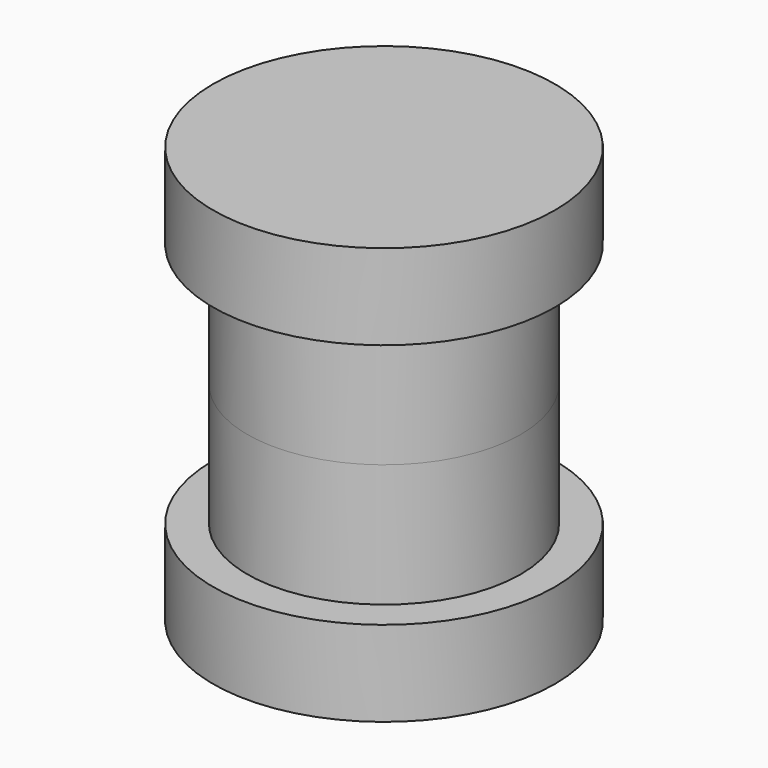
from build123d import *

# Parameters (mm, degrees)
F0_R     = 5
F1_DEPTH = 2.5
F2_R     = 4
F3_DEPTH = 3.6


with BuildPart() as f1:
    # F0 (on Top) → F1 (new body)
    with BuildSketch(Plane.XY):
        Circle(F0_R)
    extrude(amount=F1_DEPTH)

    # F2 (on face) → F3 (join)
    with BuildSketch(Plane.XY.offset(2.5)):
        Circle(F2_R)
    extrude(amount=F3_DEPTH)

    # F5: F1 across plane


with BuildPart() as f1_1:
    add(f1.part)
    add(f1.part.mirror(Plane.XY.offset(6.1)))


solid = f1_1.part
